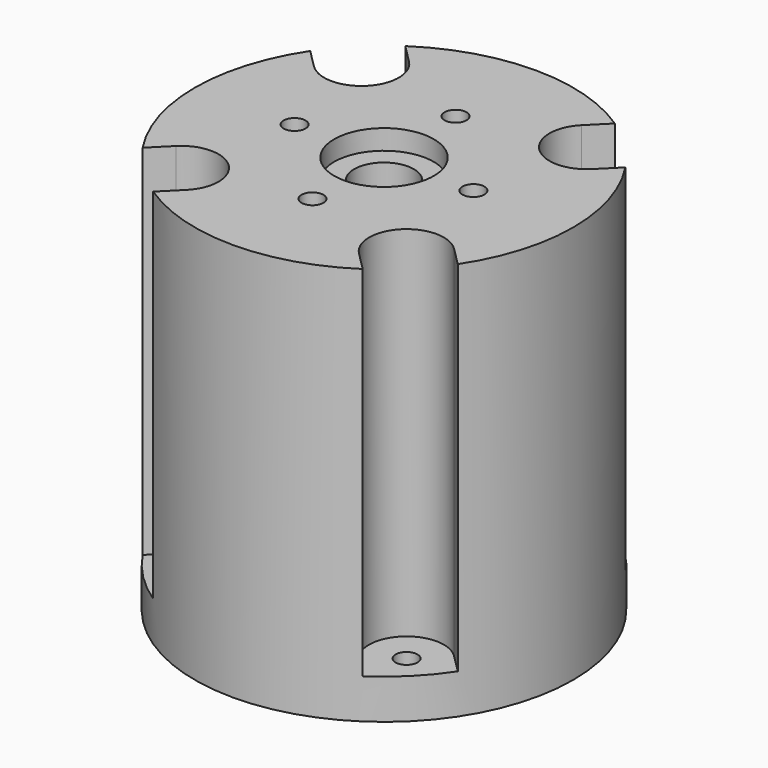
from build123d import *

# Parameters (mm, degrees)
F3_DEPTH = 36
F4_R     = 1.1
F5_DEPTH = 8
F6_R     = 1.1
F7_DEPTH = 21


with BuildPart() as f1:
    # F0 (on Front) → F1 (revolve)
    with BuildSketch(Plane.XZ):
        Polygon((-19, 0), (-11.1, 0), (-11.1, 10), (0, 10), (0, 21), (-3, 21), (-3, 38), (-5, 38), (-5, 40), (-19, 40), align=None)
    revolve(axis=Axis((0, 0, 15.5), (0, 0, 1)))

    # F2 (on face) → F3 (cut)
    with BuildSketch(Plane.XY.offset(40)):
        with BuildLine():
            Line((11.490485, 16.793786), (8.662058, 13.965359))
            ThreePointArc((8.662058, 13.965359), (8.662058, 8.662058), (13.965359, 8.662058))
            Line((13.965359, 8.662058), (16.793786, 11.490485))
            Line((16.793786, 11.490485), (11.490485, 16.793786))
        make_face()
        with BuildLine():
            Line((-16.793786, 11.490485), (-13.965359, 8.662058))
            ThreePointArc((-13.965359, 8.662058), (-8.662058, 8.662058), (-8.662058, 13.965359))
            Line((-8.662058, 13.965359), (-11.490485, 16.793786))
            Line((-11.490485, 16.793786), (-16.793786, 11.490485))
        make_face()
        with BuildLine():
            Line((-11.490485, -16.793786), (-8.662058, -13.965359))
            ThreePointArc((-8.662058, -13.965359), (-8.662058, -8.662058), (-13.965359, -8.662058))
            Line((-13.965359, -8.662058), (-16.793786, -11.490485))
            Line((-16.793786, -11.490485), (-11.490485, -16.793786))
        make_face()
        with BuildLine():
            Line((16.793786, -11.490485), (13.965359, -8.662058))
            ThreePointArc((13.965359, -8.662058), (8.662058, -8.662058), (8.662058, -13.965359))
            Line((8.662058, -13.965359), (11.490485, -16.793786))
            Line((11.490485, -16.793786), (16.793786, -11.490485))
        make_face()
    extrude(amount=-F3_DEPTH, mode=Mode.SUBTRACT)

    # F4 (on face) → F5 (cut)
    with BuildSketch(Plane.XY.offset(40)):
        with Locations((0, 8.980256)):
            Circle(F4_R)
        with Locations((8.980256, 0)):
            Circle(F4_R)
        with Locations((0, -8.980256)):
            Circle(F4_R)
        with Locations((-8.980256, 0)):
            Circle(F4_R)
    extrude(amount=-F5_DEPTH, mode=Mode.SUBTRACT)

    # F6 (on face) → F7 (cut)
    with BuildSketch(Plane(origin=(0, 0, 0), x_dir=(1, 0, 0), z_dir=(0, 0, -1))):
        with Locations((11.313708, 11.313708)):
            Circle(F6_R)
        with Locations((-11.313708, 11.313708)):
            Circle(F6_R)
        with Locations((-11.313708, -11.313708)):
            Circle(F6_R)
        with Locations((11.313708, -11.313708)):
            Circle(F6_R)
        with BuildLine():
            Line((-4.762, 12), (-4.762, 0))
            ThreePointArc((-4.762, 0), (0, -4.762), (4.762, 0))
            Line((4.762, 0), (4.762, 12))
            ThreePointArc((4.762, 12), (0, 16.762), (-4.762, 12))
        make_face()
    extrude(amount=-F7_DEPTH, mode=Mode.SUBTRACT)


solid = f1.part
